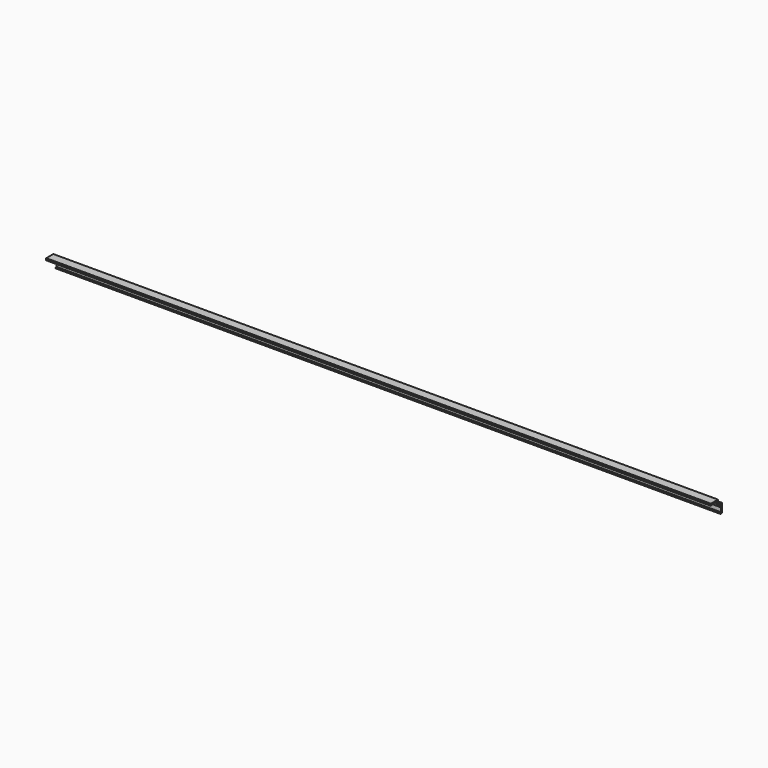
from build123d import *

# Parameters (mm, degrees)
F1_DEPTH       = 1000
F3_D           = 4.4
F3_CSINK_D     = 8.96
F3_CSINK_ANGLE = 90


with BuildPart() as f1:
    # F0 (on Right) → F1 (new body)
    with BuildSketch(Plane.YZ):
        with BuildLine():
            Line((8, -10.5), (10, -10.5))
            ThreePointArc((10, -10.5), (10.3535533906, -10.3535533906), (10.5, -10))
            Line((10.5, -10), (10.5, 3))
            ThreePointArc((10.5, 3), (10.3535533906, 3.3535533906), (10, 3.5))
            Line((10, 3.5), (9.5, 3.5))
            ThreePointArc((9.5, 3.5), (9.1464466094, 3.3535533906), (9, 3))
            Line((9, 3), (9, 1.0147186258))
            ThreePointArc((9, 1.0147186258), (8.6913417162, 0.5527788595), (8.1464466094, 0.6611652352))
            Line((8.1464466094, 0.6611652352), (0.6611652352, 8.1464466094))
            ThreePointArc((0.6611652352, 8.1464466094), (0.5527788595, 8.6913417162), (1.0147186258, 9))
            Line((1.0147186258, 9), (3, 9))
            ThreePointArc((3, 9), (3.3535533906, 9.1464466094), (3.5, 9.5))
            Line((3.5, 9.5), (3.5, 10))
            ThreePointArc((3.5, 10), (3.3535533906, 10.3535533906), (3, 10.5))
            Line((3, 10.5), (-10, 10.5))
            ThreePointArc((-10, 10.5), (-10.3535533906, 10.3535533906), (-10.5, 10))
            Line((-10.5, 10), (-10.5, 8))
            ThreePointArc((-10.5, 8), (-10.3535533906, 7.6464466094), (-10, 7.5))
            Line((-10, 7.5), (-9.5, 7.5))
            ThreePointArc((-9.5, 7.5), (-9.1464466094, 7.6464466094), (-9, 8))
            Line((-9, 8), (-9, 8.5))
            ThreePointArc((-9, 8.5), (-8.8535533906, 8.8535533906), (-8.5, 9))
            Line((-8.5, 9), (-2.5208152802, 9))
            ThreePointArc((-2.5208152802, 9), (-2.329473564, 8.9619397663), (-2.1672618896, 8.8535533906))
            Line((-2.1672618896, 8.8535533906), (8.8535533906, -2.1672618896))
            ThreePointArc((8.8535533906, -2.1672618896), (8.9619397663, -2.329473564), (9, -2.5208152802))
            Line((9, -2.5208152802), (9, -8.5))
            ThreePointArc((9, -8.5), (8.8535533906, -8.8535533906), (8.5, -9))
            Line((8.5, -9), (8, -9))
            ThreePointArc((8, -9), (7.6464466094, -9.1464466094), (7.5, -9.5))
            Line((7.5, -9.5), (7.5, -10))
            ThreePointArc((7.5, -10), (7.6464466094, -10.3535533906), (8, -10.5))
        make_face()
    extrude(amount=F1_DEPTH)

    # F3 (through all)
    with Locations(Plane(origin=(0, 3.3431457505, 3.3431457505), x_dir=(1, 0, 0), z_dir=(0, -0.7071067812, -0.7071067812))):
        with Locations((300, 0), (500, 0), (700, 0), (900, 0), (100, 0)):
            CounterSinkHole(F3_D / 2, F3_CSINK_D / 2, counter_sink_angle=F3_CSINK_ANGLE)


solid = f1.part
